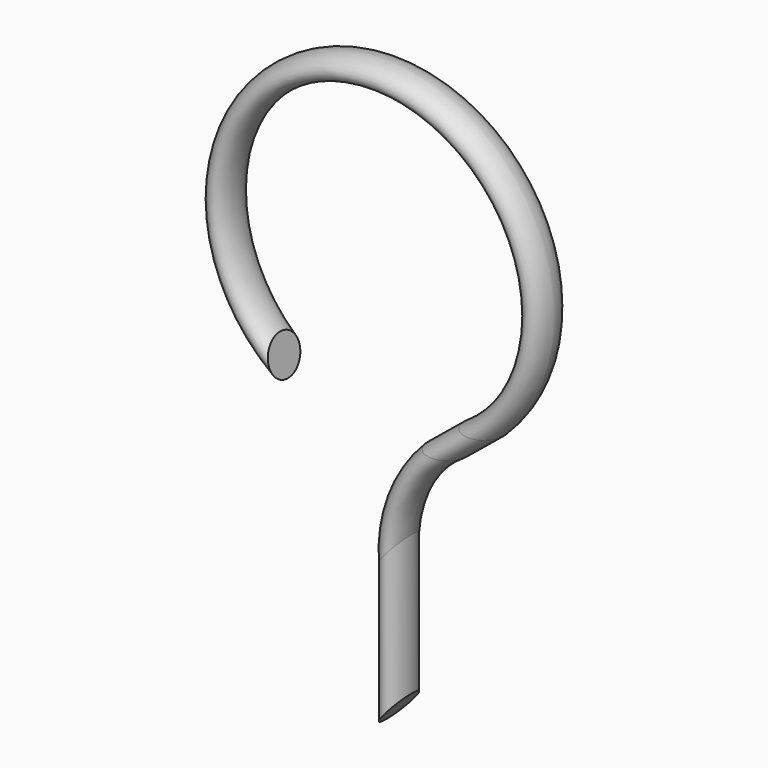
from build123d import *

# Parameters (mm, degrees)
F1_R = 0.7493


with BuildPart() as f2:
    # F2: sweep along a path in F0
    with BuildLine(Plane.XZ) as f2_path:
        ThreePointArc((-7.589436, 0), (-3.794718, 10.634761), (0, 0))
        Line((0, 0), (-1.391589, -1.137991))
        ThreePointArc((-1.391589, -1.137991), (-2.745478, -2.868167), (-3.227764, -5.011512))
        Line((-3.227764, -5.011512), (-3.227764, -10.322948))
    # F1 (on Top) → F2 (sweep)
    with BuildSketch(Plane.XY):
        Circle(F1_R)
    sweep(path=f2_path.line)


solid = f2.part
